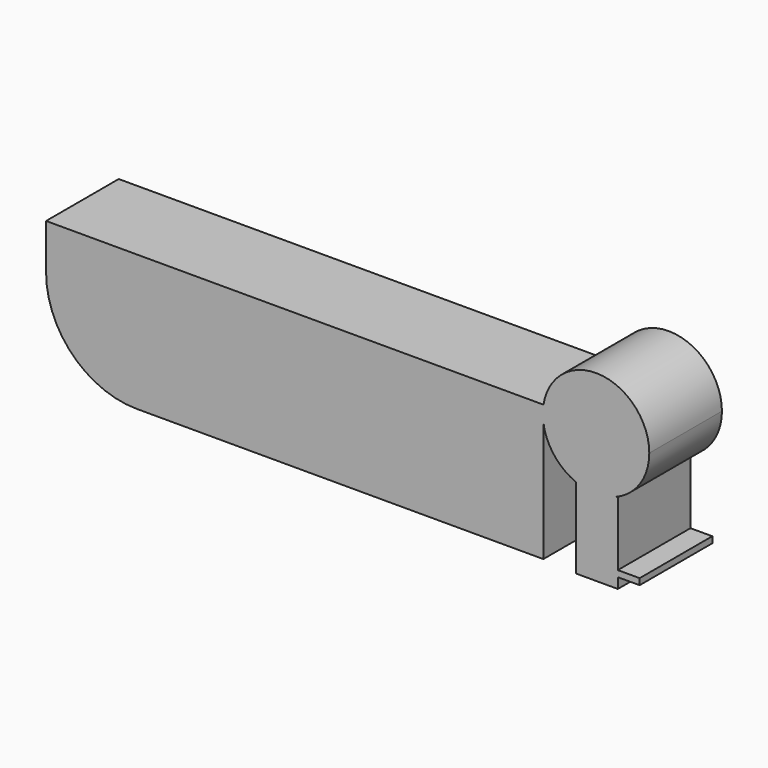
from build123d import *

# Parameters (mm, degrees)
F1_DEPTH = 25.4


with BuildPart() as f1:
    # F0 (on Front) → F1 (new body)
    with BuildSketch(Plane.XZ):
        with BuildLine():
            Line((63.2076042874, 40.8362708382), (63.2076042874, 41.0940647125))
            Line((63.2076042874, 41.0940647125), (-75.8968144655, 41.0940647125))
            Line((-75.8968144655, 41.0940647125), (-75.8968144655, 28.454915631))
            ThreePointArc((-75.8968144655, 28.454915631), (-68.4573267077, 10.4944033889), (-50.4968144655, 3.054915631))
            Line((-50.4968144655, 3.054915631), (63.2076042874, 3.054915631))
            Line((63.2076042874, 3.054915631), (63.2076042874, 36.7604829975))
            ThreePointArc((63.2076042874, 36.7604829975), (63.0674636042, 38.7983769178), (63.2076042874, 40.8362708382))
        make_face()
        with BuildLine():
            Line((63.2076042874, 40.8362708382), (63.2076042874, 41.0940647125))
            Line((63.2076042874, 41.0940647125), (-75.8968144655, 41.0940647125))
            Line((-75.8968144655, 41.0940647125), (-75.8968144655, 28.454915631))
            ThreePointArc((-75.8968144655, 28.454915631), (-68.4573267077, 10.4944033889), (-50.4968144655, 3.054915631))
            Line((-50.4968144655, 3.054915631), (63.2076042874, 3.054915631))
            Line((63.2076042874, 3.054915631), (63.2076042874, 36.7604829975))
            ThreePointArc((63.2076042874, 36.7604829975), (63.0674636042, 38.7983769178), (63.2076042874, 40.8362708382))
        make_face()
        with BuildLine():
            ThreePointArc((92.8421938741, 38.7983769178), (78.9761821356, 53.6506655597), (63.2076042874, 40.8362708382))
            Line((63.2076042874, 40.8362708382), (63.2076042874, 36.7604829975))
            ThreePointArc((63.2076042874, 36.7604829975), (66.1972966242, 29.6663410425), (72.3309676283, 25.0141168046))
            Line((72.3309676283, 25.0141168046), (83.57868985, 25.0141168046))
            ThreePointArc((83.57868985, 25.0141168046), (90.3111654634, 30.4944872619), (92.8421938741, 38.7983769178))
        make_face()
        with BuildLine():
            Line((63.2076042874, 36.7604829975), (63.2076042874, 40.8362708382))
            ThreePointArc((63.2076042874, 40.8362708382), (63.0674636042, 38.7983769178), (63.2076042874, 36.7604829975))
        make_face()
        with BuildLine():
            Line((83.57868985, 25.0141168046), (72.3309676283, 25.0141168046))
            ThreePointArc((72.3309676283, 25.0141168046), (77.9548287392, 23.9110117829), (83.57868985, 25.0141168046))
        make_face()
        with BuildLine():
            ThreePointArc((83.57868985, 25.0141168046), (77.9548287392, 23.9110117829), (72.3309676283, 25.0141168046))
            Line((72.3309676283, 25.0141168046), (72.3309676283, 2.4704295211))
            Line((72.3309676283, 2.4704295211), (84.042198956, 2.4704295211))
            Line((84.042198956, 2.4704295211), (84.042198956, 5.3777452558))
            Line((84.042198956, 5.3777452558), (84.042198956, 7.1206297725))
            Line((84.042198956, 7.1206297725), (84.042198956, 25.0141168046))
            Line((84.042198956, 25.0141168046), (83.57868985, 25.0141168046))
        make_face()
        Polygon((87.0923064649, 7.1206297725), (84.042198956, 7.1206297725), (84.042198956, 5.3777452558), (87.0923064649, 5.3777452558), (90.1424139738, 5.3777452558), (90.1424139738, 7.1206297725), align=None)
    extrude(amount=F1_DEPTH)


solid = f1.part
